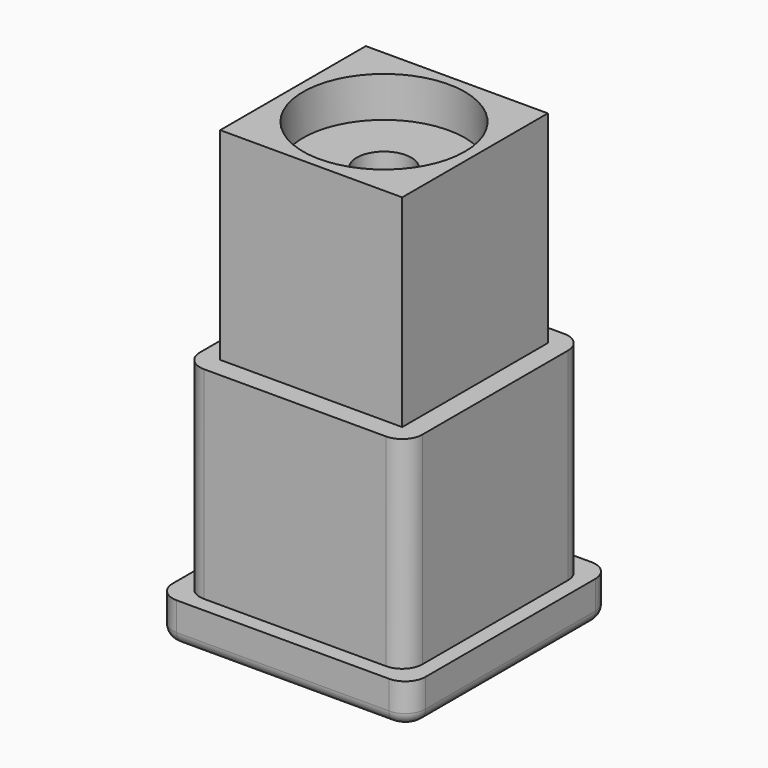
from build123d import *

# Parameters (mm, degrees)
F0_W           = 13.97
F0_H           = 13.97
F1_DEPTH       = 25.4
F2_R           = 5.08
F3_DEPTH       = 2.54
F5_R           = 1.27
F6_W           = 15.875
F6_H           = 15.875
F7_DEPTH       = 2.54
F8_R           = 1.27
F9_R           = 0.762
F4_R           = 1.7145
F10_DEPTH      = 25.401
F10_DEPTH_BACK = 2.541
F11_W          = 17.78
F11_H          = 17.78
F11_W_2        = 11.43
F11_H_2        = 11.43
F12_DEPTH      = 12.7


with BuildPart() as f1:
    # F0 (on Top) → F1 (new body)
    with BuildSketch(Plane.XY):
        Rectangle(F0_W, F0_H)
    extrude(amount=F1_DEPTH)

    # F2 (on face) → F3 (cut)
    with BuildSketch(Plane.XY.offset(25.4)):
        Circle(F2_R)
    extrude(amount=-F3_DEPTH, mode=Mode.SUBTRACT)

    # F5
    f5_edges = [f1.edges().sort_by_distance(p)[0] for p in [
        (-6.985, 6.985, 12.7),
        (-6.985, -6.985, 12.7),
        (6.985, 6.985, 12.7),
        (6.985, -6.985, 12.7),
    ]]
    fillet(f5_edges, radius=F5_R)

    # F6 (on face) → F7 (join)
    with BuildSketch(Plane(origin=(0, 0, 0), x_dir=(1, 0, 0), z_dir=(0, 0, -1))):
        Rectangle(F6_W, F6_H)
    extrude(amount=F7_DEPTH)

    # F8
    f8_edges = [f1.edges().sort_by_distance(p)[0] for p in [
        (7.9375, -7.9375, -1.27),
        (-7.9375, -7.9375, -1.27),
        (-7.9375, 7.9375, -1.27),
        (7.9375, 7.9375, -1.27),
    ]]
    fillet(f8_edges, radius=F8_R)

    # F9
    f9_edges = [f1.edges().sort_by_distance(p)[0] for p in [
        (0, -7.9375, -2.54),
    ]]
    fillet(f9_edges, radius=F9_R)

    # F4 (on face) → F10 (cut, two sides)
    with BuildSketch(Plane(origin=(0, 0, 0), x_dir=(1, 0, 0), z_dir=(0, 0, -1))) as f10_sk:
        Circle(F4_R)
    extrude(amount=-F10_DEPTH, mode=Mode.SUBTRACT)
    extrude(f10_sk.sketch, amount=F10_DEPTH_BACK, mode=Mode.SUBTRACT)

    # F11 (on face) → F12 (cut)
    with BuildSketch(Plane.XY.offset(25.4)):
        Rectangle(F11_W, F11_H)
        Rectangle(F11_W_2, F11_H_2, mode=Mode.SUBTRACT)
    extrude(amount=-F12_DEPTH, mode=Mode.SUBTRACT)


solid = f1.part
